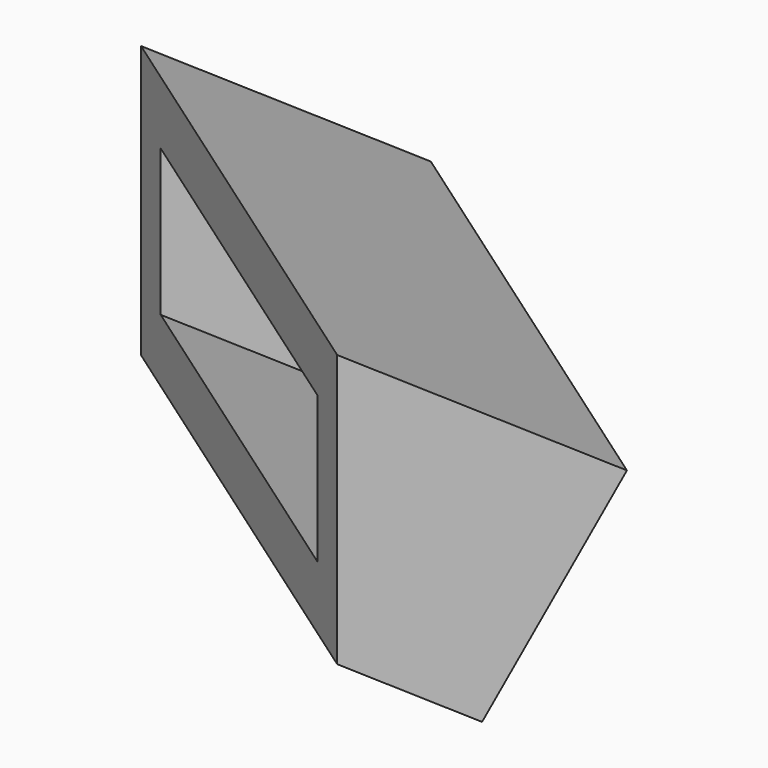
from build123d import *

# Parameters (mm, degrees)
F3_W     = 10
F3_H     = 5
F8_DEPTH = 10
F9_T     = -1


with BuildPart() as f6:
    # F6: sweep along a path in F5
    with BuildLine(Plane(origin=(0, 0, 0), x_dir=(0.5735764364, 0.8191520443, 0), z_dir=(0.8191520443, -0.5735764364, 0))) as f6_path:
        Line((-28.3761330307, -7.5), (-32.7062600496, -5))
    # F3 (on line) → F6 (sweep)
    with BuildSketch(Plane(origin=(-18.7595400856, -26.7913997807, 0), x_dir=(-0.8191520443, 0.5735764364, 0), z_dir=(0.5735764364, 0.8191520443, 0))):
        with Locations((0, -5)):
            Rectangle(F3_W, F3_H)
    sweep(path=f6_path.line)

    # F7 (on face) → F8 (cut, through all)
    with BuildSketch(Plane(origin=(4.0957602214, -2.8678821818, 0), x_dir=(0.5735764364, 0.8191520443, 0), z_dir=(0.8191520443, -0.5735764364, 0))):
        Polygon((-28.3761330307, -10), (-28.3761330307, -5), (-30.5411965402, -8.75), align=None)
    extrude(amount=-F8_DEPTH, mode=Mode.SUBTRACT)

    # F9
    f9_openings = [f6.faces().sort_by_distance(p)[0] for p in [
        (-16.896796, -24.131125, -6.875),
        (-18.75954, -26.7914, -5),
    ]]
    offset(amount=F9_T, openings=f9_openings)


solid = f6.part
